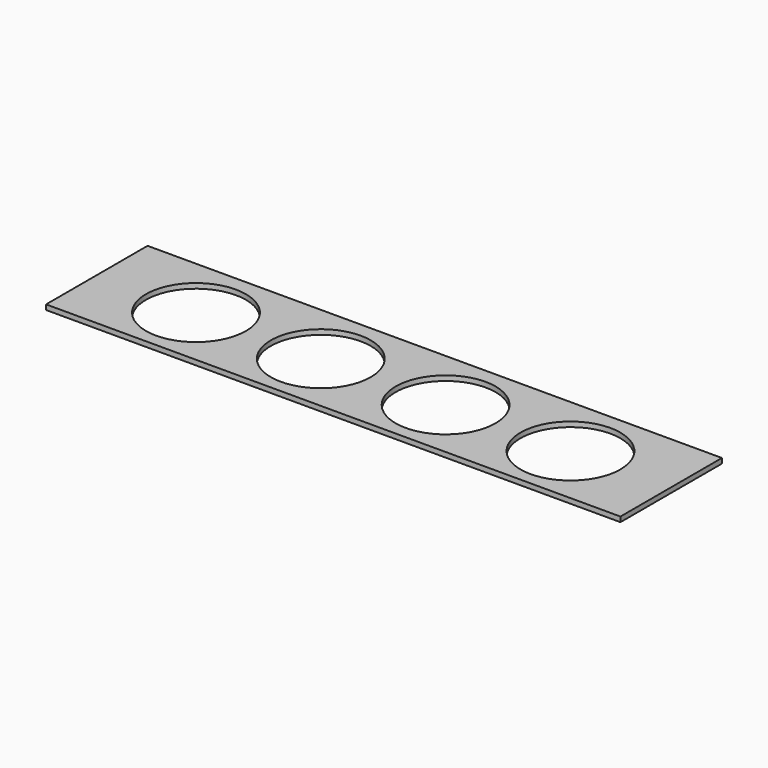
from build123d import *

# Parameters (mm, degrees)
BOX_W        = 115
BOX_H        = 25.4
BOX_DEPTH    = 1
SKETCH_R     = 10
POCKET_DEPTH = 5


with BuildPart() as part:
    # Box → Box (new body)
    with BuildSketch(Plane.XY):
        with Locations((57.5, 12.7)):
            Rectangle(BOX_W, BOX_H)
    extrude(amount=BOX_DEPTH)

    # Sketch (on Face6 of BaseFeature) → Pocket (cut)
    with BuildSketch(Plane.XY.offset(1)):
        with Locations((20.030249, 12.471815)):
            Circle(SKETCH_R)
        with Locations((45.031334, 12.462197)):
            Circle(SKETCH_R)
        with Locations((70.032419, 12.452579)):
            Circle(SKETCH_R)
        with Locations((95.033504, 12.442961)):
            Circle(SKETCH_R)
    extrude(amount=-POCKET_DEPTH, mode=Mode.SUBTRACT)


solid = part.part
